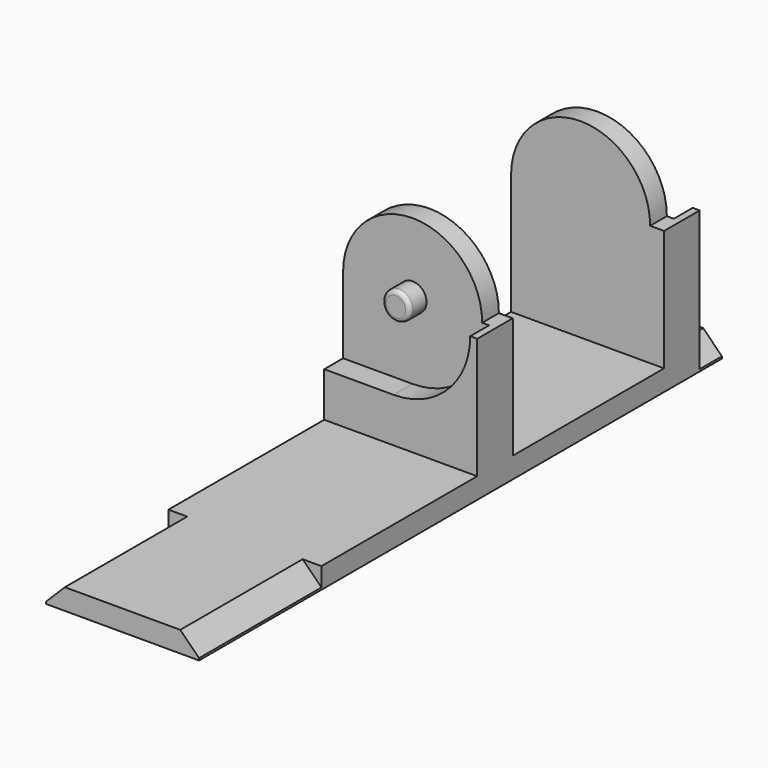
from build123d import *

# Parameters (mm, degrees)
SKETCH_W        = 11
SKETCH_H        = 20
PAD_DEPTH       = 15.2
POCKET001_DEPTH = 20
SKETCH008_W     = 13.6
SKETCH008_H     = 13.7
POCKET002_DEPTH = 11
POCKET003_DEPTH = 1.7
POCKET004_DEPTH = 1.7
SKETCH011_R     = 1
PAD001_DEPTH    = 1.5
FILLET_R        = 0.3
SKETCH012_R     = 1
PAD002_DEPTH    = 1.5
FILLET001_R     = 0.3
SKETCH013_W     = 11
SKETCH013_H     = 1.5
PAD003_DEPTH    = 25
SKETCH014_W     = 11
SKETCH014_H     = 1.5
PAD004_DEPTH    = 2
POCKET_DEPTH    = 11
POCKET005_DEPTH = 2


with BuildPart() as part:
    # Sketch → Pad (new body)
    with BuildSketch(Plane.XY):
        Rectangle(SKETCH_W, SKETCH_H)
    extrude(amount=PAD_DEPTH)

    # Sketch007 → Pocket001 (cut)
    with BuildSketch(Plane.XZ.offset(10)):
        with BuildLine():
            ThreePointArc((4.5, 10.20001), (-0.50001, 15.2), (-5.5, 10.19999))
            Line((-5.5, 10.19999), (-5.5, 16.2))
            Line((-5.5, 16.2), (5.5, 16.2))
            Line((5.5, 16.2), (5.5, 10.20001))
            Line((5.5, 10.20001), (4.5, 10.20001))
        make_face()
    extrude(amount=-POCKET001_DEPTH, mode=Mode.SUBTRACT)

    # Sketch008 (on Face7 of Pocket001) → Pocket002 (cut)
    with BuildSketch(Plane(origin=(-5.5, 0, 0), x_dir=(0, -1, 0), z_dir=(-1, 0, 0))):
        with Locations((0, 8.35)):
            Rectangle(SKETCH008_W, SKETCH008_H)
    extrude(amount=-POCKET002_DEPTH, mode=Mode.SUBTRACT)

    # Sketch009 (on Face8 of Pocket002) → Pocket003 (cut)
    with BuildSketch(Plane.XZ.offset(10)):
        with BuildLine():
            ThreePointArc((-0.49999, 4.7), (3.389081, 14.089094), (-6, 10.19999))
            Line((-6, 10.19999), (-6, 4.7))
            Line((-6, 4.7), (-0.49999, 4.7))
        make_face()
    extrude(amount=-POCKET003_DEPTH, mode=Mode.SUBTRACT)

    # Sketch010 (on Face1 of Pocket003) → Pocket004 (cut)
    with BuildSketch(Plane(origin=(0, 10, 0), x_dir=(-1, 0, 0), z_dir=(0, 1, 0))):
        with BuildLine():
            ThreePointArc((6, 10.19999), (-3.389081, 14.089094), (0.49999, 4.7))
            Line((0.49999, 4.7), (6, 4.7))
            Line((6, 4.7), (6, 10.19999))
        make_face()
    extrude(amount=-POCKET004_DEPTH, mode=Mode.SUBTRACT)

    # Sketch011 (on Face17 of Pocket004) → Pad001 (join)
    with BuildSketch(Plane.XZ.offset(8.3)):
        with Locations((-0.5, 10.2)):
            Circle(SKETCH011_R)
    extrude(amount=PAD001_DEPTH)

    # Fillet
    fillet_edges = [part.edges().sort_by_distance(p)[0] for p in [
        (-1.5, -9.8, 10.2),
    ]]
    fillet(fillet_edges, radius=FILLET_R)

    # Sketch012 (on Face15 of Fillet) → Pad002 (join)
    with BuildSketch(Plane(origin=(0, 8.3, 0), x_dir=(-1, 0, 0), z_dir=(0, 1, 0))):
        with Locations((0.5, 10.2)):
            Circle(SKETCH012_R)
    extrude(amount=PAD002_DEPTH)

    # Fillet001
    fillet001_edges = [part.edges().sort_by_distance(p)[0] for p in [
        (0.5, 9.8, 10.2),
    ]]
    fillet(fillet001_edges, radius=FILLET001_R)

    # Sketch013 (on Face20 of Fillet001) → Pad003 (join)
    with BuildSketch(Plane.XZ.offset(10)):
        with Locations((0, 0.75)):
            Rectangle(SKETCH013_W, SKETCH013_H)
    extrude(amount=PAD003_DEPTH)

    # Sketch014 (on Face11 of Pad003) → Pad004 (join)
    with BuildSketch(Plane(origin=(0, 10, 0), x_dir=(-1, 0, 0), z_dir=(0, 1, 0))):
        with Locations((0, 0.75)):
            Rectangle(SKETCH014_W, SKETCH014_H)
    extrude(amount=PAD004_DEPTH)

    # Sketch015 (on Face29 of Pad004) → Pocket (cut)
    with BuildSketch(Plane.XZ.offset(35)):
        Polygon((-4.15, 1.5), (-5.65, 0), (-5.65, 2.5), (5.65, 2.5), (5.65, 0), (4.15, 1.5), align=None)
    extrude(amount=-POCKET_DEPTH, mode=Mode.SUBTRACT)

    # Sketch016 (on Face33 of Pocket) → Pocket005 (cut)
    with BuildSketch(Plane(origin=(0, 12, 0), x_dir=(-1, 0, 0), z_dir=(0, 1, 0))):
        Polygon((-4.15, 1.5), (-5.65, 0), (-5.65, 2.5), (5.65, 2.5), (5.65, 0), (4.15, 1.5), align=None)
    extrude(amount=-POCKET005_DEPTH, mode=Mode.SUBTRACT)


solid = part.part
